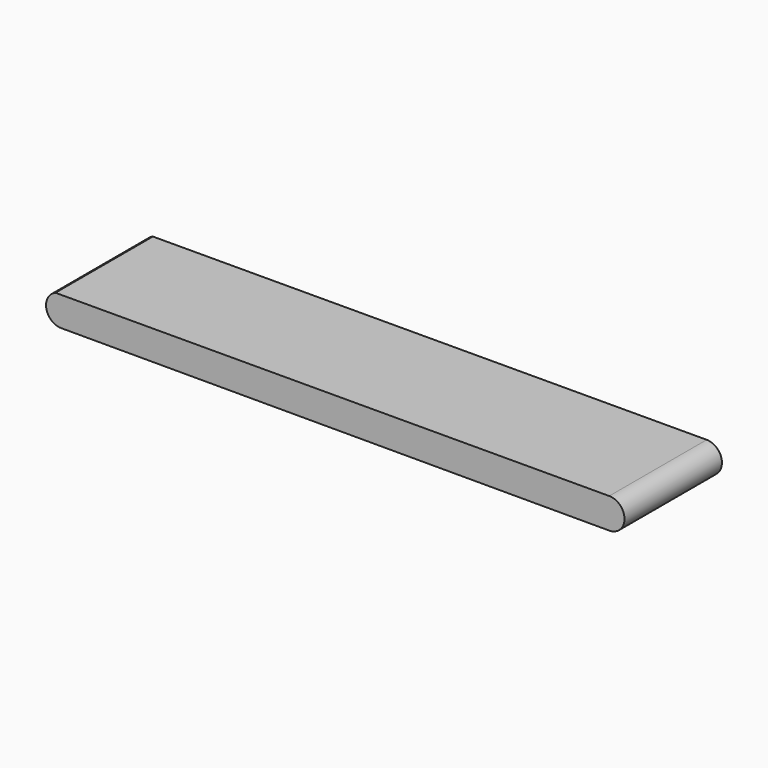
from build123d import *

# Parameters (mm, degrees)
F1_DEPTH = 203.2


with BuildPart() as f1:
    # F0 (on Front) → F1 (new body)
    with BuildSketch(Plane.XZ):
        with BuildLine():
            Line((-42.7784153649, 23.4848271869), (-62.2295438798, 23.4436506788))
            ThreePointArc((-62.2295438798, 23.4436506788), (-77.3604186448, -4.984539736), (-52.4543076754, -25.4))
            ThreePointArc((-52.4543076754, -25.4), (-34.4937954332, -17.9605122421), (-27.0543076754, 0))
            ThreePointArc((-27.0543076754, 0), (-31.348293548, 14.1313894454), (-42.7784153649, 23.4848271869))
        make_face()
        with BuildLine():
            Line((861.8919226443, 25.399943087), (-42.7784153649, 23.4848271869))
            ThreePointArc((-42.7784153649, 23.4848271869), (-31.348293548, 14.1313894454), (-27.0543076754, 0))
            Line((-27.0543076754, 0), (836.5456923246, 0))
            ThreePointArc((836.5456923246, 0), (843.96617968, 17.9414917178), (861.8919226443, 25.399943087))
        make_face()
        with BuildLine():
            ThreePointArc((-27.0543076754, 0), (-34.4937954332, -17.9605122421), (-52.4543076754, -25.4))
            Line((-52.4543076754, -25.4), (861.9456923246, -25.4))
            ThreePointArc((861.9456923246, -25.4), (843.9851800825, -17.9605122421), (836.5456923246, 0))
            Line((836.5456923246, 0), (-27.0543076754, 0))
        make_face()
        with BuildLine():
            ThreePointArc((887.3456923246, 0), (879.8871840424, 17.9795126447), (861.8919226443, 25.399943087))
            Line((861.8919226443, 25.399943087), (862.7891166971, -25.3859928962))
            ThreePointArc((862.7891166971, -25.3859928962), (880.2019649324, -17.659799276), (887.3456923246, 0))
        make_face()
        with BuildLine():
            ThreePointArc((836.5456923246, 0), (843.9851800825, -17.9605122421), (861.9456923246, -25.4))
            ThreePointArc((861.9456923246, -25.4), (862.3674626623, -25.3964979826), (862.7891166971, -25.3859928962))
            Line((862.7891166971, -25.3859928962), (861.8919226443, 25.399943087))
            ThreePointArc((861.8919226443, 25.399943087), (843.96617968, 17.9414917178), (836.5456923246, 0))
        make_face()
    extrude(amount=F1_DEPTH)


solid = f1.part
